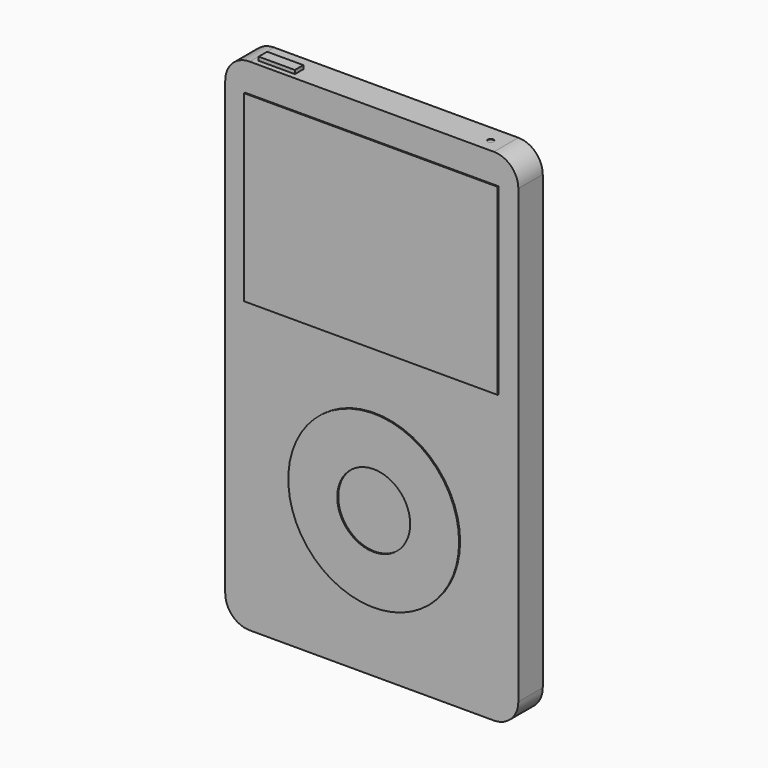
from build123d import *

# Parameters (mm, degrees)
F0_W      = 60.96
F0_H      = 104.14
F0_R      = 17.78
F0_R_2    = 7.62
F1_DEPTH  = 6.35
F2_R      = 17.7657824196
F2_R_2    = 7.588336925
F3_DEPTH  = 0.254
F4_W      = 52.7304011778
F4_H      = 38.1
F5_DEPTH  = 0.254
F6_W      = 7.5248517096
F6_H      = 2.2023727652
F7_DEPTH  = 0.762
F8_R      = 5.08
F9_R      = 0.6248874124
F10_DEPTH = 0.1
F11_W     = 17.3393432051
F11_H     = 0.9681868833
F12_DEPTH = 0.1
F13_R     = 0.2460151655
F13_R_2   = 0.2460152488
F13_R_3   = 0.2218778153
F13_R_4   = 0.2339087287
F13_R_5   = 0.2167167574
F14_DEPTH = 0.2


with BuildPart() as f1:
    # F0 (on Front) → F1 (new body)
    with BuildSketch(Plane.XZ):
        with Locations((-0.6015785038, 6.9682898942)):
            Rectangle(F0_W, F0_H)
        with Locations((0, -14.6217101058)):
            Circle(F0_R, mode=Mode.SUBTRACT)
        Polygon((-26.619868353, 33.6382898942), (-26.619868353, 52.6882898942), (25.7174987346, 52.6882898942), (25.7174987346, 14.5882898942), (-26.619868353, 14.5882898942), align=None, mode=Mode.SUBTRACT)
        Polygon((25.7174987346, 52.6882898942), (-26.619868353, 52.6882898942), (-26.619868353, 33.6382898942), (-26.619868353, 14.5882898942), (25.7174987346, 14.5882898942), align=None)
        with Locations((0, -14.6217101058)):
            Circle(F0_R)
        with Locations((0, -14.6217101058)):
            Circle(F0_R_2, mode=Mode.SUBTRACT)
        with Locations((0, -14.6217101058)):
            Circle(F0_R_2)
    extrude(amount=F1_DEPTH)

    # F2 (on face) → F3 (join)
    with BuildSketch(Plane.XZ.offset(6.35)):
        with Locations((0, -14.6216154099)):
            Circle(F2_R)
        with Locations((0, -14.6216154099)):
            Circle(F2_R_2, mode=Mode.SUBTRACT)
    extrude(amount=F3_DEPTH)

    # F4 (on face) → F5 (join)
    with BuildSketch(Plane.XZ.offset(6.35)):
        with Locations((-0.6015794352, 33.9892106131)):
            Rectangle(F4_W, F4_H)
    extrude(amount=F5_DEPTH)

    # F6 (on face) → F7 (join)
    with BuildSketch(Plane.XY.offset(59.0382898942)):
        with Locations((-21.2724506855, -4.1166004958)):
            Rectangle(F6_W, F6_H)
    extrude(amount=F7_DEPTH)

    # F8
    f8_edges = [f1.edges().sort_by_distance(p)[0] for p in [
        (29.878421, -3.175, 59.03829),
        (-31.081579, -3.175, 59.03829),
        (-31.081579, -3.175, -45.10171),
        (29.878421, -3.175, -45.10171),
    ]]
    fillet(f8_edges, radius=F8_R)

    # F9 (on face) → F10 (cut)
    with BuildSketch(Plane.XY.offset(59.0382898942)):
        with Locations((21.9533834606, -3.6403015256)):
            Circle(F9_R)
    extrude(amount=-F10_DEPTH, mode=Mode.SUBTRACT)

    # F11 (on face) → F12 (cut)
    with BuildSketch(Plane(origin=(0, 0, -45.1017101058), x_dir=(1, 0, 0), z_dir=(0, 0, -1))):
        with Locations((0.1725424081, 3.2033285825)):
            Rectangle(F11_W, F11_H)
    extrude(amount=-F12_DEPTH, mode=Mode.SUBTRACT)

    # F13 (on face) → F14 (cut)
    with BuildSketch(Plane(origin=(0, 0, -45.0017101058), x_dir=(1, 0, 0), z_dir=(0, 0, -1))):
        with Locations((-6.265850272, 3.1648736913)):
            Circle(F13_R)
        with Locations((-3.4933153074, 3.1428695656)):
            Circle(F13_R_2)
        with Locations((0, 3.1428695656)):
            Circle(F13_R_3)
        with Locations((3.5260387231, 3.1428695656)):
            Circle(F13_R_4)
        with Locations((7.1127302945, 3.1428695656)):
            Circle(F13_R_5)
    extrude(amount=-F14_DEPTH, mode=Mode.SUBTRACT)


solid = f1.part
